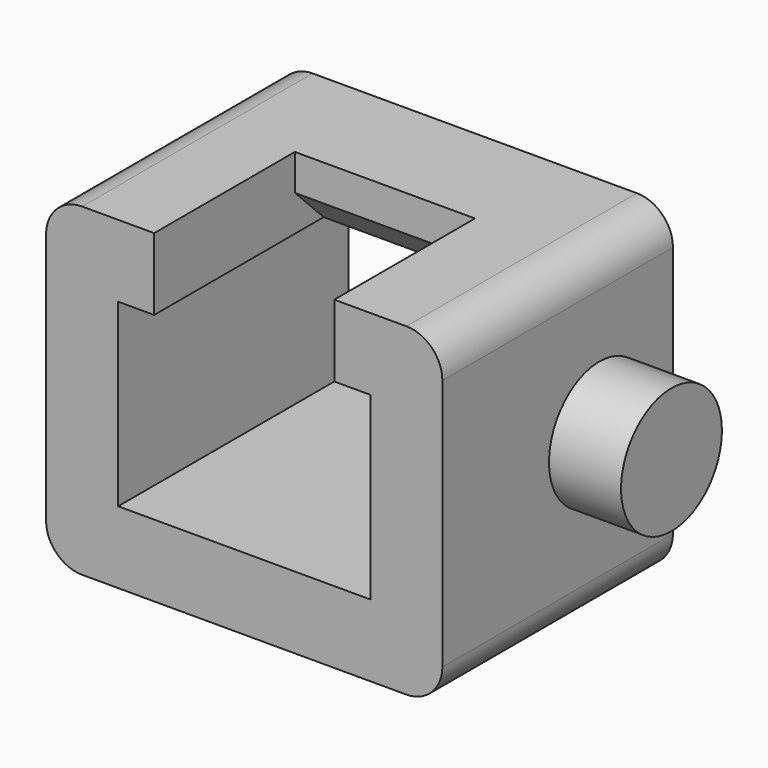
from build123d import *

# Parameters (mm, degrees)
F0_W     = 11
F0_H     = 9
F0_W_2   = 7
F0_H_2   = 5
F1_DEPTH = 8
F2_W     = 5
F2_H     = 4.881562
F3_DEPTH = 5
F4_R     = 1.75
F5_DEPTH = 2
F6_R     = 1.75
F7_DEPTH = 2
F8_SIZE  = 1
F9_R     = 1


with BuildPart() as f1:
    # F0 (on Front) → F1 (new body)
    with BuildSketch(Plane.XZ):
        Rectangle(F0_W, F0_H)
        Rectangle(F0_W_2, F0_H_2, mode=Mode.SUBTRACT)
    extrude(amount=F1_DEPTH)

    # F2 (on face) → F3 (cut)
    with BuildSketch(Plane.XY.offset(4.5)):
        with Locations((0, -5.559219)):
            Rectangle(F2_W, F2_H)
    extrude(amount=-F3_DEPTH, mode=Mode.SUBTRACT)

    # F4 (on face) → F5 (join)
    with BuildSketch(Plane(origin=(-5.5, 0, 0), x_dir=(0, -1, 0), z_dir=(-1, 0, 0))):
        with Locations((2.55, 0)):
            Circle(F4_R)
    extrude(amount=F5_DEPTH)

    # F6 (on face) → F7 (join)
    with BuildSketch(Plane.YZ.offset(5.5)):
        with Locations((-2.55, 0)):
            Circle(F6_R)
    extrude(amount=F7_DEPTH)

    # F8
    f8_edges = [f1.edges().sort_by_distance(p)[0] for p in [
        (0, -3.118438, 2.5),
    ]]
    chamfer(f8_edges, length=F8_SIZE)

    # F9
    f9_edges = [f1.edges().sort_by_distance(p)[0] for p in [
        (5.5, -4, 4.5),
        (-5.5, -4, 4.5),
        (5.5, -4, -4.5),
        (-5.5, -4, -4.5),
    ]]
    fillet(f9_edges, radius=F9_R)


solid = f1.part
